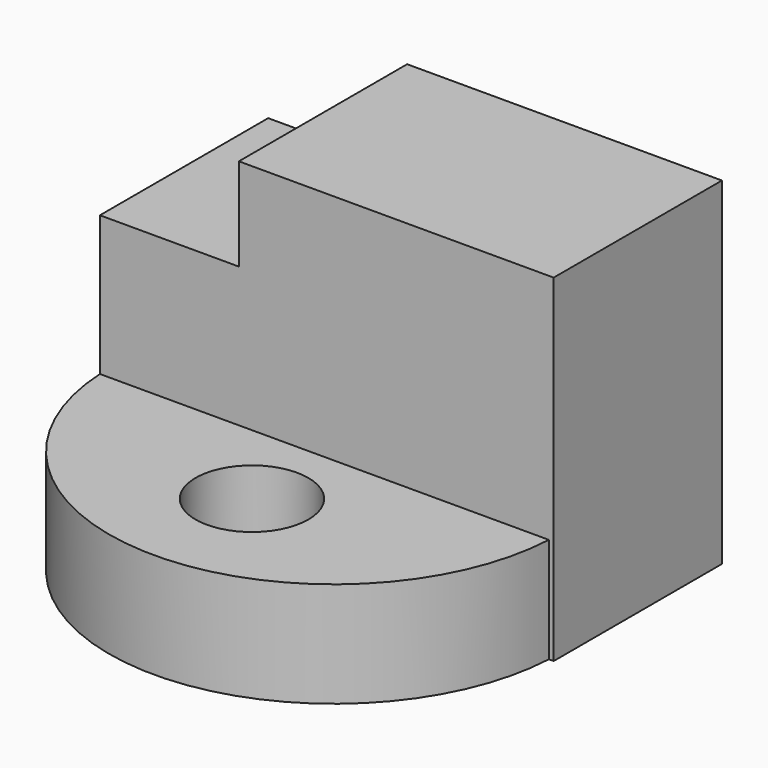
from build123d import *

# Parameters (mm, degrees)
F0_R     = 6.8106486863
F1_DEPTH = 12.7
F2_W     = 54.7973774374
F2_H     = 40.7694242895
F3_DEPTH = 25.4
F4_W     = 16.7819336057
F4_H     = 11.1922137439
F5_DEPTH = 25.401


with BuildPart() as f1:
    # F0 (on Top) → F1 (new body)
    with BuildSketch(Plane.XY):
        with BuildLine():
            Line((24.775410071, 0), (-29.439015314, 0))
            ThreePointArc((-29.439015314, 0), (-2.3318026215, -25.7123308299), (24.775410071, 0))
        make_face()
        with Locations((-2.3318026215, -10.9303286299)):
            Circle(F0_R, mode=Mode.SUBTRACT)
    extrude(amount=F1_DEPTH)


with BuildPart() as f3:
    # F2 (on Front) → F3 (new body)
    with BuildSketch(Plane.XZ):
        with Locations((-2.0403265953, 20.3847121447)):
            Rectangle(F2_W, F2_H)
    extrude(amount=-F3_DEPTH)

    # F4 (on face) → F5 (cut, through all)
    with BuildSketch(Plane.XZ):
        with Locations((-21.0480485111, 35.1733174175)):
            Rectangle(F4_W, F4_H)
    extrude(amount=-F5_DEPTH, mode=Mode.SUBTRACT)


solid = Compound([f1.part, f3.part])
